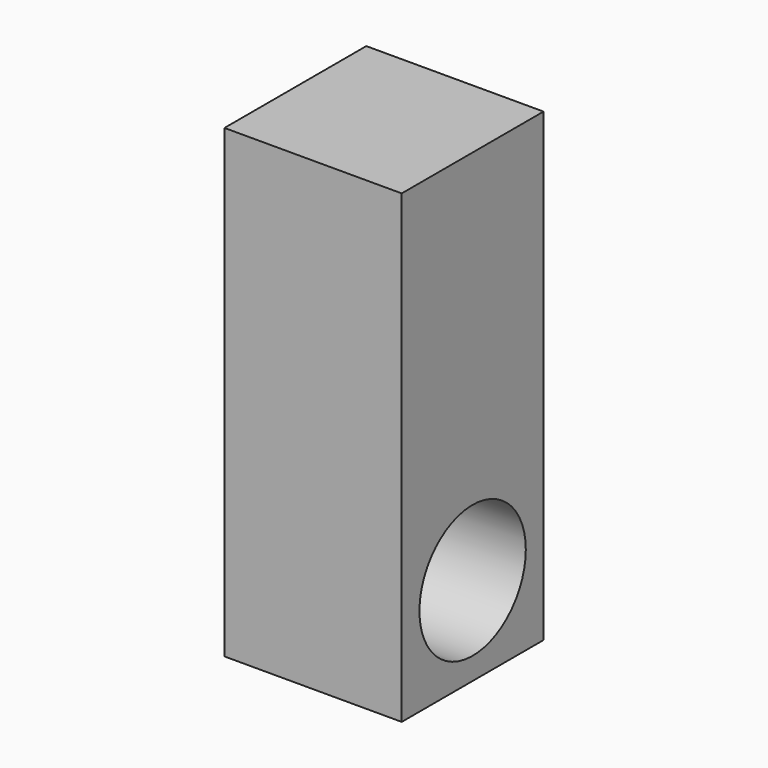
from build123d import *

# Parameters (mm, degrees)
F0_W     = 20
F0_H     = 19.999998
F1_DEPTH = 20
F2_R     = 7.5
F3_DEPTH = 20.001
F4_W     = 20
F4_H     = 20
F5_DEPTH = 32.5


with BuildPart() as f1:
    # F0 (on Right) → F1 (new body)
    with BuildSketch(Plane.YZ):
        Rectangle(F0_W, F0_H)
    extrude(amount=F1_DEPTH)

    # F2 (on face) → F3 (cut, through all)
    with BuildSketch(Plane.YZ.offset(20)):
        Circle(F2_R)
    extrude(amount=-F3_DEPTH, mode=Mode.SUBTRACT)

    # F4 (on face) → F5 (join)
    with BuildSketch(Plane.XY.offset(9.999999)):
        with Locations((10, 0)):
            Rectangle(F4_W, F4_H)
    extrude(amount=F5_DEPTH)


solid = f1.part
